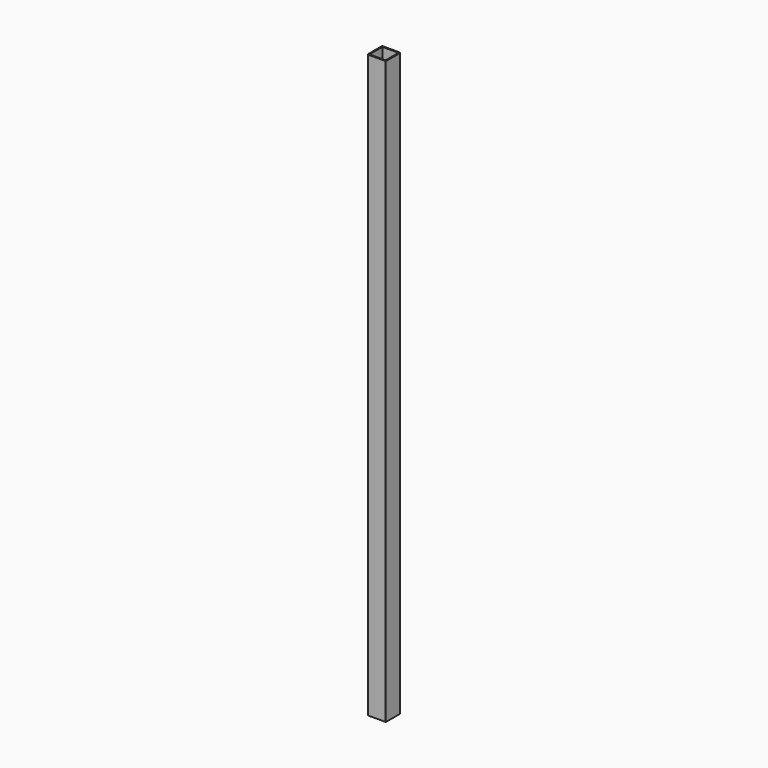
from build123d import *

# Parameters (mm, degrees)
SKETCH_W   = 25
SKETCH_H   = 25
SKETCH_W_2 = 22
SKETCH_H_2 = 22
PAD_DEPTH  = 793
FILLET_R   = 0.74


with BuildPart() as part:
    # Sketch → Pad (new body)
    with BuildSketch(Plane.XY):
        with Locations((12.5, 12.5)):
            Rectangle(SKETCH_W, SKETCH_H)
        with Locations((12.5, 12.5)):
            Rectangle(SKETCH_W_2, SKETCH_H_2, mode=Mode.SUBTRACT)
    extrude(amount=PAD_DEPTH)

    # Fillet
    fillet_edges = [part.edges().sort_by_distance(p)[0] for p in [
        (25, 0, 396.5),
        (0, 0, 396.5),
        (25, 25, 396.5),
        (0, 25, 396.5),
    ]]
    fillet(fillet_edges, radius=FILLET_R)


solid = part.part
